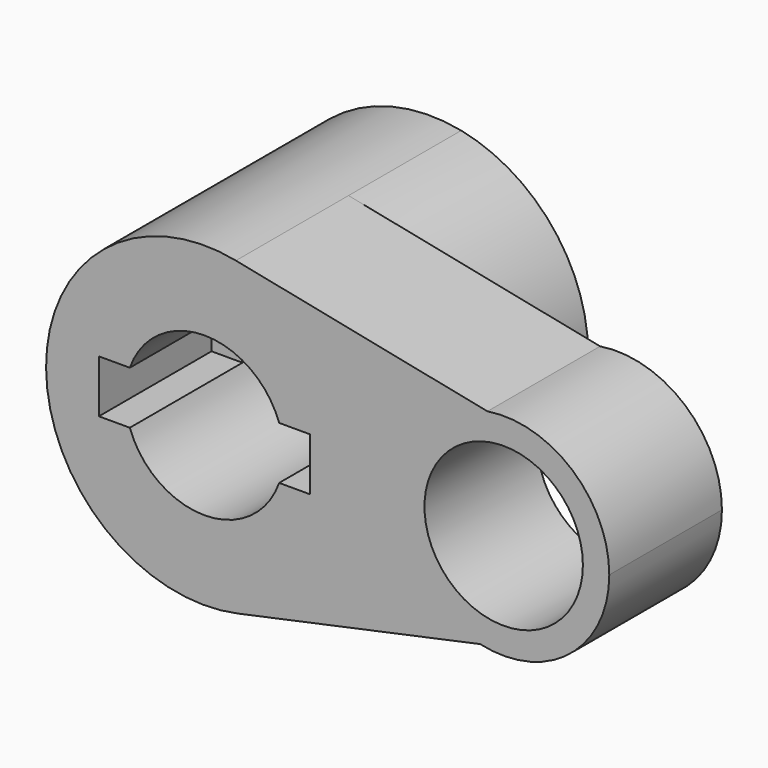
from build123d import *

# Parameters (mm, degrees)
F0_R     = 14.2875
F1_DEPTH = 25.4
F2_DEPTH = 25.4


with BuildPart() as f1:
    # F0 (on Front) → F1 (new body)
    with BuildSketch(Plane.XZ):
        with BuildLine():
            ThreePointArc((5.9827839062, -27.9416699882), (22.2203586281, -17.9662541294), (28.575, 0))
            ThreePointArc((28.575, 0), (22.1191753976, 18.0906800516), (5.6687739472, 28.0070638757))
            ThreePointArc((5.6687739472, 28.0070638757), (-28.5745499588, -0.160373482), (5.9827839062, -27.9416699882))
        make_face()
        with BuildLine():
            ThreePointArc((-13.4703841816, 4.7625), (0, 14.2875), (13.4703841816, 4.7625))
            Line((13.4703841816, 4.7625), (19.05, 4.7625))
            Line((19.05, 4.7625), (19.05, -4.7625))
            Line((19.05, -4.7625), (13.4703841816, -4.7625))
            ThreePointArc((13.4703841816, -4.7625), (0, -14.2875), (-13.4703841816, -4.7625))
            Line((-13.4703841816, -4.7625), (-19.05, -4.7625))
            Line((-19.05, -4.7625), (-19.05, 4.7625))
            Line((-19.05, 4.7625), (-13.4703841816, 4.7625))
        make_face(mode=Mode.SUBTRACT)
        with BuildLine():
            ThreePointArc((5.6687739472, 28.0070638757), (22.1191753976, 18.0906800516), (28.575, 0))
            ThreePointArc((28.575, 0), (22.2203586281, -17.9662541294), (5.9827839062, -27.9416699882))
            Line((5.9827839062, -27.9416699882), (49.7382261223, -18.5728901119))
            ThreePointArc((49.7382261223, -18.5728901119), (34.9365884326, 0.6643681139), (51.0432019838, 18.8230459913))
            Line((51.0432019838, 18.8230459913), (5.6687739472, 28.0070638757))
        make_face()
        with BuildLine():
            ThreePointArc((73.025, 0), (66.3655558348, 14.469852318), (51.0432019838, 18.8230459913))
            ThreePointArc((51.0432019838, 18.8230459913), (34.9365884326, 0.6643681139), (49.7382261223, -18.5728901119))
            ThreePointArc((49.7382261223, -18.5728901119), (65.8533828367, -14.8931702866), (73.025, 0))
        make_face()
        with Locations((53.975, 0)):
            Circle(F0_R, mode=Mode.SUBTRACT)
    extrude(amount=F1_DEPTH)

    # F0 (on Front) → F2 (join)
    with BuildSketch(Plane.XZ):
        with BuildLine():
            ThreePointArc((5.9827839062, -27.9416699882), (22.2203586281, -17.9662541294), (28.575, 0))
            ThreePointArc((28.575, 0), (22.1191753976, 18.0906800516), (5.6687739472, 28.0070638757))
            ThreePointArc((5.6687739472, 28.0070638757), (-28.5745499588, -0.160373482), (5.9827839062, -27.9416699882))
        make_face()
        with BuildLine():
            ThreePointArc((-13.4703841816, 4.7625), (0, 14.2875), (13.4703841816, 4.7625))
            Line((13.4703841816, 4.7625), (19.05, 4.7625))
            Line((19.05, 4.7625), (19.05, -4.7625))
            Line((19.05, -4.7625), (13.4703841816, -4.7625))
            ThreePointArc((13.4703841816, -4.7625), (0, -14.2875), (-13.4703841816, -4.7625))
            Line((-13.4703841816, -4.7625), (-19.05, -4.7625))
            Line((-19.05, -4.7625), (-19.05, 4.7625))
            Line((-19.05, 4.7625), (-13.4703841816, 4.7625))
        make_face(mode=Mode.SUBTRACT)
        with BuildLine():
            ThreePointArc((-13.4703841816, -4.7625), (-14.2875, 0), (-13.4703841816, 4.7625))
            Line((-13.4703841816, 4.7625), (-19.05, 4.7625))
            Line((-19.05, 4.7625), (-19.05, -4.7625))
            Line((-19.05, -4.7625), (-13.4703841816, -4.7625))
        make_face()
    extrude(amount=-F2_DEPTH)


solid = f1.part
